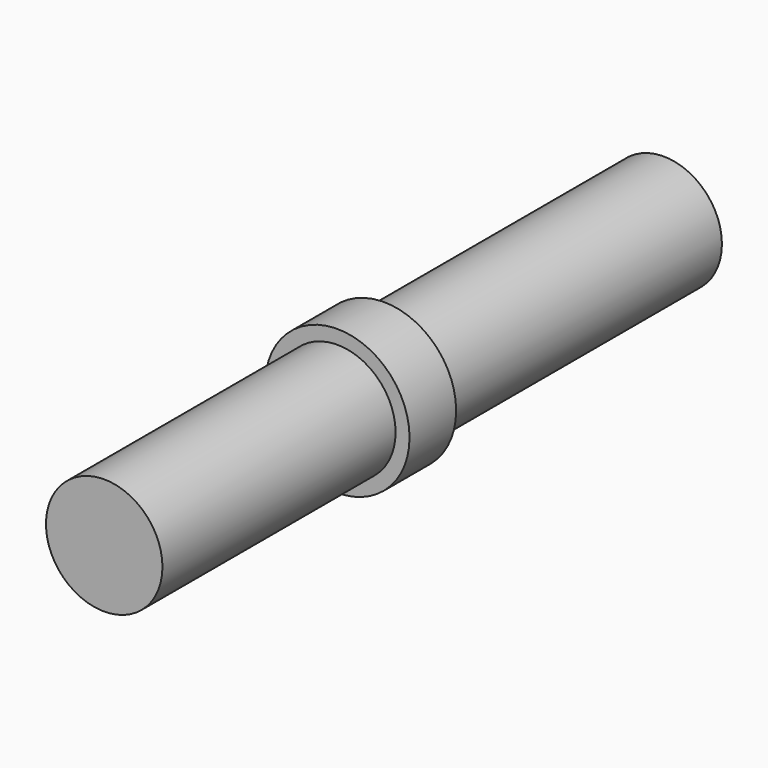
from build123d import *

# Parameters (mm, degrees)
F0_R     = 25
F1_DEPTH = 150.1
F2_R     = 30.985026
F2_R_2   = 25
F3_DEPTH = 25


with BuildPart() as f1:
    # F0 (on Front) → F1 (new body, symmetric)
    with BuildSketch(Plane.XZ):
        Circle(F0_R)
    extrude(amount=F1_DEPTH, both=True)

    # F2 (on Front) → F3 (join)
    with BuildSketch(Plane.XZ):
        Circle(F2_R)
        Circle(F2_R_2, mode=Mode.SUBTRACT)
    extrude(amount=F3_DEPTH)


solid = f1.part
